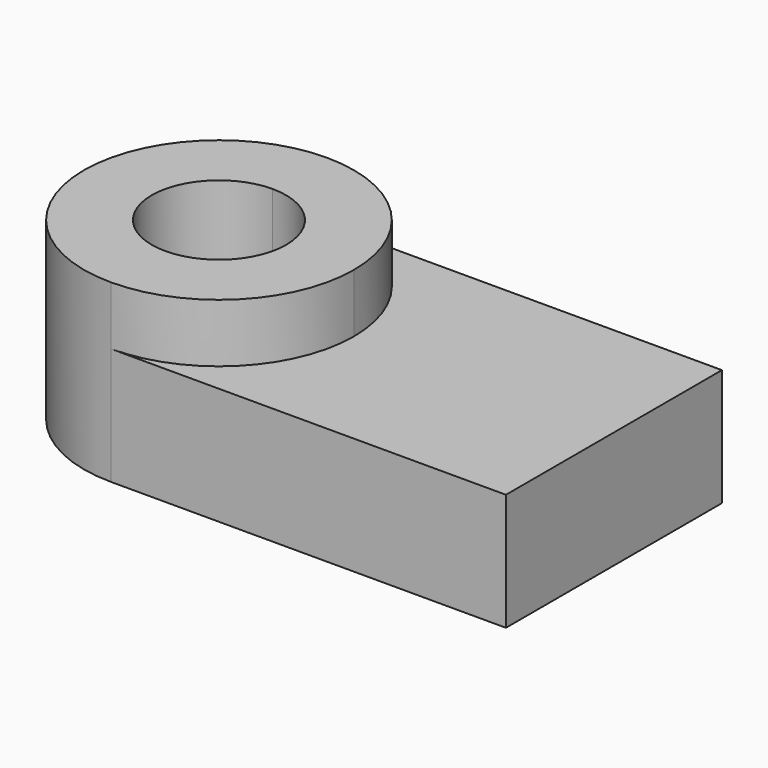
from build123d import *

# Parameters (mm, degrees)
F1_DEPTH = 20
F2_DEPTH = 30


with BuildPart() as f1:
    # F0 (on Top) → F1 (new body)
    with BuildSketch(Plane.XY):
        with BuildLine():
            Line((26.324494, 29.597269), (-41.123118, 29.597269))
            ThreePointArc((-41.123118, 29.597269), (-24.823095, 22.845579), (-18.071405, 6.545556))
            ThreePointArc((-18.071405, 6.545556), (-24.823095, -9.754467), (-41.123118, -16.506158))
            Line((-41.123118, -16.506158), (26.324494, -16.506158))
            Line((26.324494, -16.506158), (26.324494, 29.597269))
        make_face()
        with BuildLine():
            Line((-41.123118, 18.017708), (-41.123118, 29.597269))
            ThreePointArc((-41.123118, 29.597269), (-64.174832, 6.545556), (-41.123118, -16.506158))
            Line((-41.123118, -16.506158), (-41.123118, -4.926596))
            ThreePointArc((-41.123118, -4.926596), (-52.59527, 6.545556), (-41.123118, 18.017708))
        make_face()
    extrude(amount=F1_DEPTH)

    # F0 (on Top) → F2 (join)
    with BuildSketch(Plane.XY):
        with BuildLine():
            Line((-41.123118, 18.017708), (-41.123118, 29.597269))
            ThreePointArc((-41.123118, 29.597269), (-64.174832, 6.545556), (-41.123118, -16.506158))
            Line((-41.123118, -16.506158), (-41.123118, -4.926596))
            ThreePointArc((-41.123118, -4.926596), (-52.59527, 6.545556), (-41.123118, 18.017708))
        make_face()
        with BuildLine():
            ThreePointArc((-18.071405, 6.545556), (-24.823095, 22.845579), (-41.123118, 29.597269))
            Line((-41.123118, 29.597269), (-41.123118, 18.017708))
            ThreePointArc((-41.123118, 18.017708), (-33.011082, 14.657592), (-29.650966, 6.545556))
            ThreePointArc((-29.650966, 6.545556), (-33.011082, -1.566481), (-41.123118, -4.926596))
            Line((-41.123118, -4.926596), (-41.123118, -16.506158))
            ThreePointArc((-41.123118, -16.506158), (-24.823095, -9.754467), (-18.071405, 6.545556))
        make_face()
    extrude(amount=F2_DEPTH)


solid = f1.part
